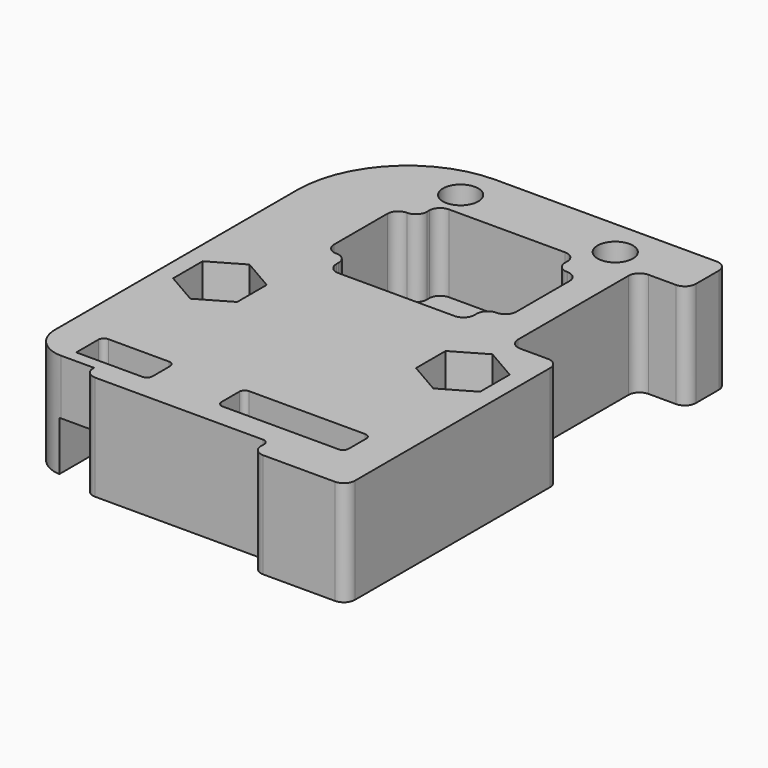
from build123d import *

# Parameters (mm, degrees)
SKETCH_R        = 3.65
SKETCH_R_2      = 1.6
SKETCH_W        = 6.5
SKETCH_H        = 3
SKETCH_W_2      = 11.5
PAD_DEPTH       = 9.5
POCKET_DEPTH    = 7
POCKET001_DEPTH = 3.5
SKETCH003_W     = 25.7
SKETCH003_H     = 13
POCKET002_DEPTH = 3
SKETCH004_R     = 1.8
POCKET003_DEPTH = 1.5
FILLET_R        = 1
FILLET001_R     = 0.99
FILLET002_R     = 0.5


with BuildPart() as part:
    # Sketch → Pad (new body)
    with BuildSketch(Plane.XY):
        with BuildLine():
            Line((15.5, -31.35), (15.5, -7.25))
            Line((15.5, -7.25), (11, -7.25))
            Line((11, -7.25), (11, 7.25))
            Line((11, 7.25), (15.5, 7.25))
            Line((15.5, 7.25), (15.5, 11.85))
            Line((15.5, 11.85), (-5.5, 11.85))
            ThreePointArc((-5.5, 11.85), (-12.571068, 8.921068), (-15.5, 1.85))
            Line((-15.5, 1.85), (-15.5, -25.57))
            ThreePointArc((-15.5, -25.57), (-14.679899, -27.549899), (-12.7, -28.37))
            Line((-9.7, -28.37), (-12.7, -28.37))
            Line((-9.7, -29.49), (-9.7, -28.37))
            Line((-9.7, -29.49), (7, -29.49))
            Line((7, -29.49), (7, -31.35))
            Line((7, -31.35), (15.5, -31.35))
        make_face()
        Circle(SKETCH_R, mode=Mode.SUBTRACT)
        with Locations((-11, -12.5)):
            Circle(SKETCH_R_2, mode=Mode.SUBTRACT)
        with Locations((11, -12.5)):
            Circle(SKETCH_R_2, mode=Mode.SUBTRACT)
        with Locations((-6, 8.5)):
            Circle(SKETCH_R_2, mode=Mode.SUBTRACT)
        with Locations((8, 8.5)):
            Circle(SKETCH_R_2, mode=Mode.SUBTRACT)
        with Locations((-8.91, -25.81)):
            Rectangle(SKETCH_W, SKETCH_H, mode=Mode.SUBTRACT)
        with Locations((6.35, -25.81)):
            Rectangle(SKETCH_W_2, SKETCH_H, mode=Mode.SUBTRACT)
    extrude(amount=PAD_DEPTH)

    # Sketch002 (on Face29 of Pad) → Pocket (cut)
    with BuildSketch(Plane.XY.offset(9.5)):
        Polygon((8.25, -4), (6.25, -4), (6.25, -6.25), (-6.25, -6.25), (-6.25, -4), (-8.25, -4), (-8.25, 4), (-6.25, 4), (-6.25, 6.25), (6.25, 6.25), (6.25, 4), (8.25, 4), align=None)
    extrude(amount=-POCKET_DEPTH, mode=Mode.SUBTRACT)

    # Sketch001 (on Face5 of Pocket) → Pocket001 (cut)
    with BuildSketch(Plane.XY.offset(9.5)):
        Polygon((-8.1, -14.174316), (-8.1, -10.825684), (-11, -9.151368), (-13.9, -10.825684), (-13.9, -14.174316), (-11, -15.848632), align=None)
        Polygon((13.9, -14.174316), (13.9, -10.825684), (11, -9.151368), (8.1, -10.825684), (8.1, -14.174316), (11, -15.848632), align=None)
    extrude(amount=-POCKET001_DEPTH, mode=Mode.SUBTRACT)

    # Sketch003 (on Face4 of Pocket001) → Pocket002 (cut)
    with BuildSketch(Plane(origin=(0, 0, 0), x_dir=(1, 0, 0), z_dir=(0, 0, -1))):
        with Locations((0, 22)):
            Rectangle(SKETCH003_W, SKETCH003_H)
    extrude(amount=-POCKET002_DEPTH, mode=Mode.SUBTRACT)

    # Sketch004 (on Face7 of Pocket002) → Pocket003 (cut)
    with BuildSketch(Plane(origin=(0, 0, 3), x_dir=(1, 0, 0), z_dir=(0, 0, -1))):
        with Locations((0, 22)):
            Circle(SKETCH004_R)
        with BuildLine():
            Line((1.5, 15.5), (12.85, 15.5))
            Line((12.85, 15.5), (12.85, 20.5))
            Line((12.85, 20.5), (3.5, 20.5))
            ThreePointArc((3.5, 20.5), (2.085786, 19.914214), (1.5, 18.5))
            Line((1.5, 18.5), (1.5, 15.5))
        make_face()
        with BuildLine():
            Line((-1.5, 15.5), (-12.85, 15.5))
            Line((-12.85, 15.5), (-12.85, 20.5))
            Line((-12.85, 20.5), (-3.5, 20.5))
            ThreePointArc((-1.5, 18.5), (-2.085786, 19.914214), (-3.5, 20.5))
            Line((-1.5, 18.5), (-1.5, 15.5))
        make_face()
        with BuildLine():
            Line((12.85, 23.5), (3.5, 23.5))
            ThreePointArc((1.5, 25.5), (2.085786, 24.085786), (3.5, 23.5))
            Line((1.5, 25.5), (1.5, 28.5))
            Line((1.5, 28.5), (12.85, 28.5))
            Line((12.85, 28.5), (12.85, 23.5))
        make_face()
        with BuildLine():
            Line((-12.85, 23.5), (-3.5, 23.5))
            ThreePointArc((-3.5, 23.5), (-2.085786, 24.085786), (-1.5, 25.5))
            Line((-1.5, 25.5), (-1.5, 28.5))
            Line((-1.5, 28.5), (-12.85, 28.5))
            Line((-12.85, 28.5), (-12.85, 23.5))
        make_face()
    extrude(amount=-POCKET003_DEPTH, mode=Mode.SUBTRACT)

    # Fillet
    fillet_edges = [part.edges().sort_by_distance(p)[0] for p in [
        (15.5, 11.85, 4.75),
        (15.5, 7.25, 4.75),
        (11, 7.25, 4.75),
        (15.5, -7.25, 4.75),
        (15.5, -31.35, 4.75),
        (7, -31.35, 4.75),
        (-9.7, -29.49, 4.75),
        (11, -7.25, 4.75),
    ]]
    fillet(fillet_edges, radius=FILLET_R)

    # Fillet001
    fillet001_edges = [part.edges().sort_by_distance(p)[0] for p in [
        (-8.25, 4, 6),
        (-6.25, 4, 6),
        (-6.25, 6.25, 6),
        (6.25, 4, 6),
        (-6.25, -4, 6),
        (-8.25, -4, 6),
        (-6.25, -6.25, 6),
        (6.25, -6.25, 6),
        (6.25, -4, 6),
        (8.25, -4, 6),
        (6.25, 6.25, 6),
        (8.25, 4, 6),
    ]]
    fillet(fillet001_edges, radius=FILLET001_R)

    # Fillet002
    fillet002_edges = [part.edges().sort_by_distance(p)[0] for p in [
        (-12.85, -15.5, 1.5),
        (-12.85, -15.5, 3.75),
        (-12.16, -24.31, 7),
        (12.85, -15.5, 3.75),
        (12.85, -15.5, 1.5),
        (-1.5, -15.5, 3.75),
        (1.892549, -24.31, 3.75),
        (-5.66, -27.31, 7),
        (-1.5, -28.5, 3.75),
        (-1.8, -22, 4.5),
        (12.1, -27.31, 7),
        (12.85, -28.5, 3.75),
        (12.85, -28.5, 1.5),
        (12.85, -20.5, 3.75),
        (12.85, -23.5, 3.75),
        (1.5, -28.5, 3.75),
        (0.6, -27.31, 6.25),
        (0.6, -24.31, 6.25),
        (1.5, -15.5, 3.75),
        (12.1, -24.31, 7),
        (-5.66, -24.31, 7),
        (-12.85, -23.5, 3.75),
        (-12.85, -20.5, 3.75),
        (7, -29.49, 4.75),
    ]]
    fillet(fillet002_edges, radius=FILLET002_R)


solid = part.part
